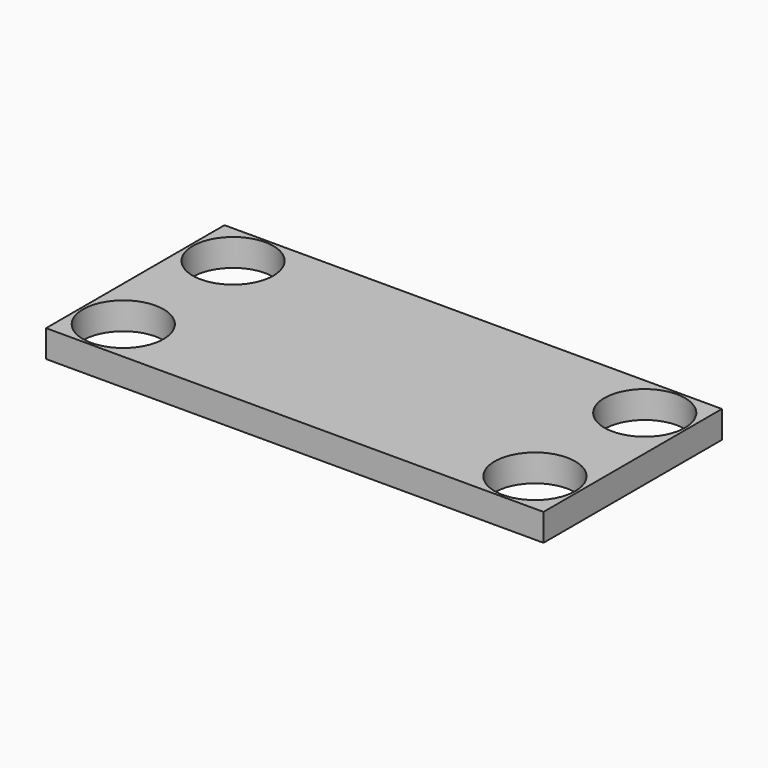
from build123d import *

# Parameters (mm, degrees)
F0_W     = 29
F0_H     = 13
F1_DEPTH = 1.5875
F2_R     = 6.25
F3_DEPTH = 2
F5_R     = 2.35
F6_DEPTH = 25.4


with BuildPart() as f1:
    # F0 (on Top) → F1 (new body)
    with BuildSketch(Plane.XY):
        Rectangle(F0_W, F0_H)
    extrude(amount=F1_DEPTH)

    # F5 (on face) → F6 (cut)
    with BuildSketch(Plane.XY.offset(1.5875)):
        with Locations((-12, 4)):
            Circle(F5_R)
        with Locations((-12, -4)):
            Circle(F5_R)
        with Locations((12, -4)):
            Circle(F5_R)
        with Locations((12, 4)):
            Circle(F5_R)
    extrude(amount=-F6_DEPTH, mode=Mode.SUBTRACT)


with BuildPart() as f3:
    # F2 (on Top) → F3 (new body)
    with BuildSketch(Plane.XY):
        with Locations((-62.359009, 0)):
            Circle(F2_R)
    extrude(amount=F3_DEPTH)


solid = f1.part
